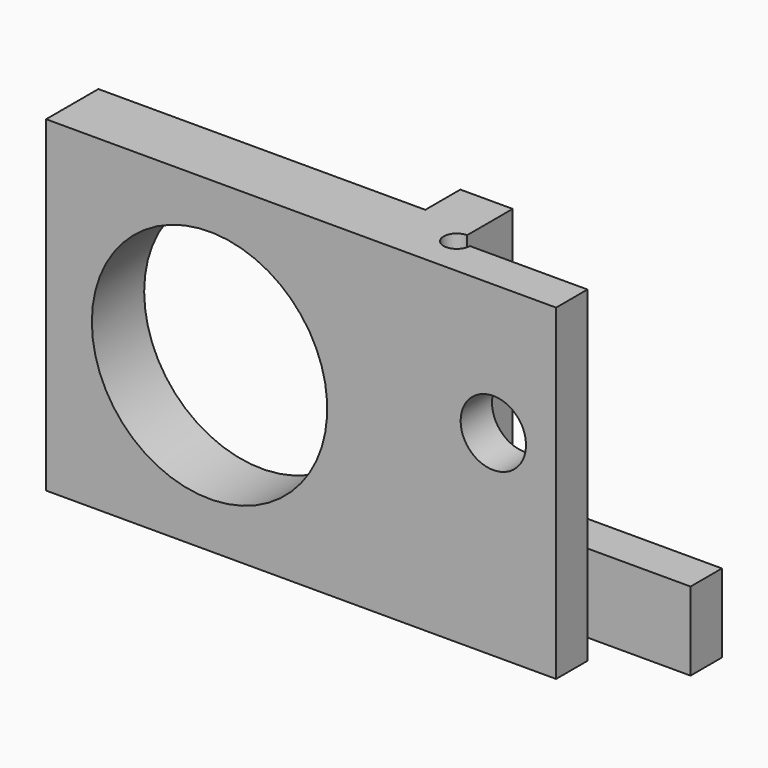
from build123d import *

# Parameters (mm, degrees)
F1_DEPTH       = 25
F2_W           = 10
F2_H           = 19
F3_DEPTH       = 3
F4_R           = 9
F5_DEPTH       = 10
F6_R           = 2.5
F7_DEPTH       = 25
F8_W           = 3
F8_H           = 6
F9_DEPTH       = 6
F10_R          = 1
F11_DEPTH      = 25
F13_DEPTH      = 25
F13_DEPTH_BACK = 2


with BuildPart() as f1:
    # F0 (on Top) → F1 (new body)
    with BuildSketch(Plane.XY):
        Polygon((1.6985263115, 0.4360290599), (1.6985263115, 2.7860290599), (11.6985263115, 2.7860290599), (11.6985263115, 5.7860290599), (-2.3014736885, 5.7860290599), (-2.3014736885, 2.4360290599), (-27.3014736885, 2.4360290599), (-27.3014736885, -2.5639709401), (11.6985263115, -2.5639709401), (11.6985263115, 0.4360290599), align=None)
    extrude(amount=F1_DEPTH)

    # F2 (on face) → F3 (cut)
    with BuildSketch(Plane(origin=(0, 5.7860290599, 0), x_dir=(-1, 0, 0), z_dir=(0, 1, 0))):
        with Locations((-6.6985263115, 15.5)):
            Rectangle(F2_W, F2_H)
    extrude(amount=-F3_DEPTH, mode=Mode.SUBTRACT)

    # F4 (on face) → F5 (cut)
    with BuildSketch(Plane(origin=(0, 2.4360290599, 0), x_dir=(-1, 0, 0), z_dir=(0, 1, 0))):
        with Locations((14.8014736885, 12.5)):
            Circle(F4_R)
    extrude(amount=-F5_DEPTH, mode=Mode.SUBTRACT)

    # F6 (on face) → F7 (cut)
    with BuildSketch(Plane(origin=(0, 0.4360290599, 0), x_dir=(-1, 0, 0), z_dir=(0, 1, 0))):
        with Locations((-6.8985263115, 15)):
            Circle(F6_R)
    extrude(amount=-F7_DEPTH, mode=Mode.SUBTRACT)

    # F8 (on face) → F9 (join)
    with BuildSketch(Plane.YZ.offset(11.6985263115)):
        with Locations((4.2860290599, 3)):
            Rectangle(F8_W, F8_H)
    extrude(amount=F9_DEPTH)

    # F10 (on face) → F11 (cut)
    with BuildSketch(Plane.XY.offset(25)):
        with Locations((1.6985263115, 0.4360290599)):
            Circle(F10_R)
    extrude(amount=-F11_DEPTH, mode=Mode.SUBTRACT)

    # F12 (on face) → F13 (cut, two sides)
    with BuildSketch(Plane.XY.offset(6)) as f13_sk:
        with BuildLine():
            ThreePointArc((1.6985263115, 3.7860290599), (0.9914195303, 2.0789222787), (2.6985263115, 2.7860290599))
            Line((2.6985263115, 2.7860290599), (1.6985263115, 2.7860290599))
            Line((1.6985263115, 2.7860290599), (1.6985263115, 3.7860290599))
        make_face()
        with BuildLine():
            Line((1.6985263115, 2.7860290599), (2.6985263115, 2.7860290599))
            ThreePointArc((2.6985263115, 2.7860290599), (2.4056330927, 3.4931358411), (1.6985263115, 3.7860290599))
            Line((1.6985263115, 3.7860290599), (1.6985263115, 2.7860290599))
        make_face()
    extrude(amount=-F13_DEPTH, mode=Mode.SUBTRACT)
    extrude(f13_sk.sketch, amount=F13_DEPTH_BACK, mode=Mode.SUBTRACT)


solid = f1.part
